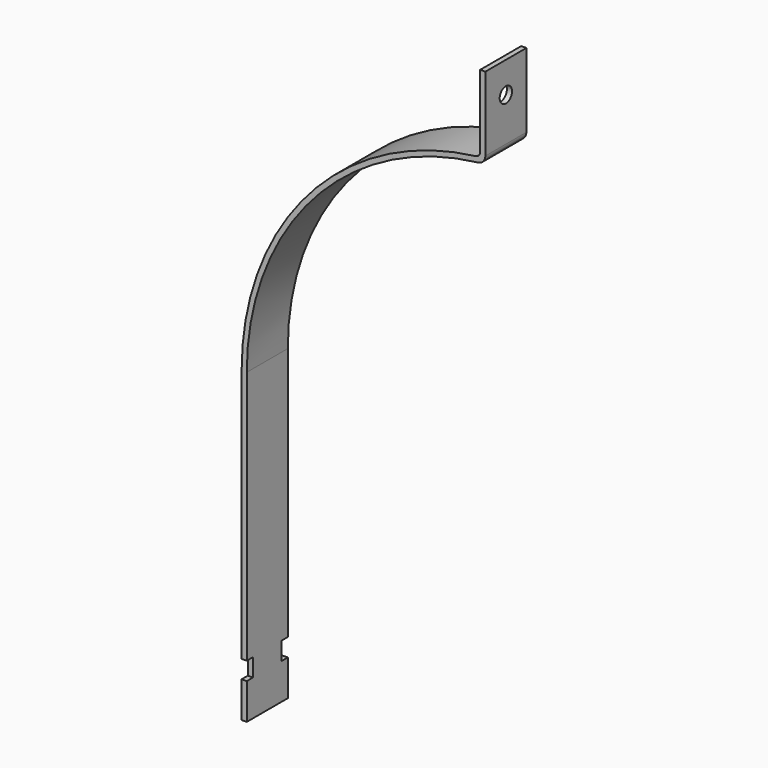
from build123d import *

# Parameters (mm, degrees)
F0_W     = 3.175
F0_H     = 28.575
F1_DEPTH = 15.875
F2_R     = 3.175
F3_R     = 5.08
F4_R     = 4.7625
F5_DEPTH = 3.176
F6_W     = 4.7625
F6_H     = 11.1125
F7_DEPTH = 25.4


with BuildPart() as f1:
    # F0 (on Front) → F1 (new body, symmetric)
    with BuildSketch(Plane.XZ):
        with BuildLine():
            ThreePointArc((-160.35073, 0), (-117.864138, 109.335137), (-12.7, 161.294609))
            Line((-12.7, 161.294609), (-12.7, 211.800312))
            Line((-12.7, 211.800312), (-15.875, 211.800312))
            Line((-15.875, 211.800312), (-15.875, 164.175312))
            ThreePointArc((-15.875, 164.175312), (-121.183386, 110.401847), (-163.52573, 0))
            Line((-163.52573, 0), (-163.52573, -161.925))
            Line((-163.52573, -161.925), (-160.35073, -161.925))
            Line((-160.35073, -161.925), (-160.35073, 0))
        make_face()
        with Locations((-161.93823, -176.2125)):
            Rectangle(F0_W, F0_H)
    extrude(amount=F1_DEPTH, both=True)

    # F2
    f2_edges = [f1.edges().sort_by_distance(p)[0] for p in [
        (-15.875, 0, 164.175312),
    ]]
    fillet(f2_edges, radius=F2_R)

    # F3
    f3_edges = [f1.edges().sort_by_distance(p)[0] for p in [
        (-12.7, 0, 161.294609),
    ]]
    fillet(f3_edges, radius=F3_R)

    # F4 (on face) → F5 (cut, through all)
    with BuildSketch(Plane(origin=(-15.875, 0, 0), x_dir=(0, -1, 0), z_dir=(-1, 0, 0))):
        with Locations((0, 192.750312)):
            Circle(F4_R)
    extrude(amount=-F5_DEPTH, mode=Mode.SUBTRACT)

    # F6 (on face) → F7 (cut)
    with BuildSketch(Plane(origin=(-163.52573, 0, 0), x_dir=(0, -1, 0), z_dir=(-1, 0, 0))):
        with Locations((-13.49375, -162.71875)):
            Rectangle(F6_W, F6_H)
        with Locations((13.49375, -162.71875)):
            Rectangle(F6_W, F6_H)
    extrude(amount=-F7_DEPTH, mode=Mode.SUBTRACT)


solid = f1.part
